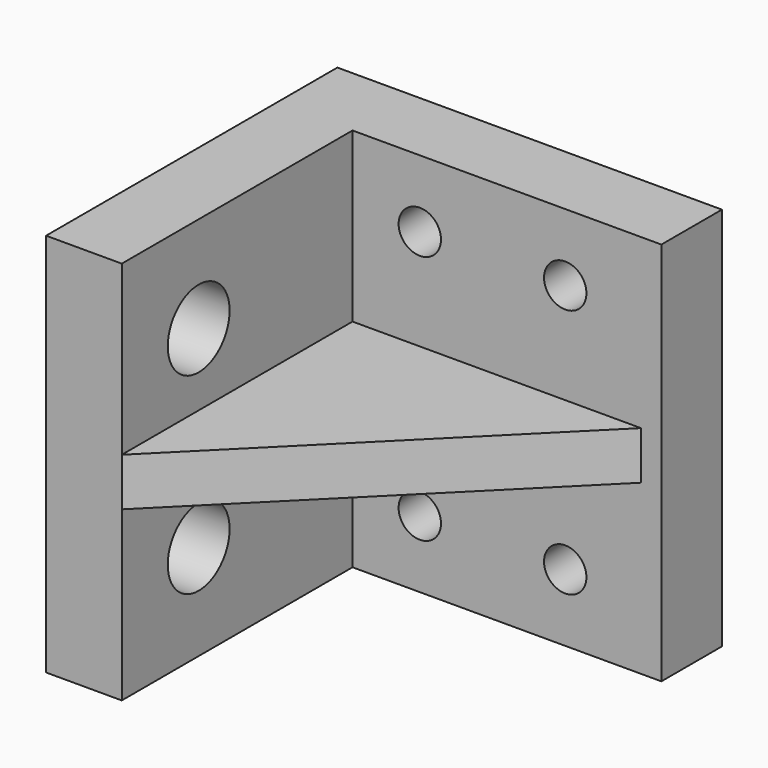
from build123d import *

# Parameters (mm, degrees)
F1_DEPTH = 25.4
F2_W     = 19.05
F2_H     = 1.5875
F3_DEPTH = 20.4
F5_DEPTH = 3.175
F6_R     = 1.4
F7_DEPTH = 5
F8_R     = 2.5527
F9_DEPTH = 5


with BuildPart() as f1:
    # F0 (on Top) → F1 (new body)
    with BuildSketch(Plane.XY):
        Polygon((-12.7, -12.025), (-7.7, -12.025), (-7.7, 7.025), (12.7, 7.025), (12.7, 12.025), (-12.7, 12.025), align=None)
    extrude(amount=F1_DEPTH)

    # F2 (on face) → F3 (join)
    with BuildSketch(Plane.YZ.offset(-7.7)):
        with Locations((-2.5, 13.49375)):
            Rectangle(F2_W, F2_H)
        with Locations((-2.5, 11.90625)):
            Rectangle(F2_W, F2_H)
    extrude(amount=F3_DEPTH)

    # F4 (on face) → F5 (cut, through all)
    with BuildSketch(Plane.XY.offset(14.2875)):
        Polygon((-7.7, -12.025), (12.7, -12.025), (12.7, 7.025), (11.35, 7.025), align=None)
    extrude(amount=-F5_DEPTH, mode=Mode.SUBTRACT)

    # F6 (on face) → F7 (cut, through all)
    with BuildSketch(Plane(origin=(0, 12.025, 0), x_dir=(-1, 0, 0), z_dir=(0, 1, 0))):
        with Locations((-6.35, 4.445)):
            Circle(F6_R)
        with Locations((-6.35, 20.955)):
            Circle(F6_R)
        with Locations((3.255, 20.955)):
            Circle(F6_R)
        with Locations((3.255, 4.445)):
            Circle(F6_R)
    extrude(amount=-F7_DEPTH, mode=Mode.SUBTRACT)

    # F8 (on face) → F9 (cut, through all)
    with BuildSketch(Plane(origin=(-12.7, 0, 0), x_dir=(0, -1, 0), z_dir=(-1, 0, 0))):
        with Locations((5.675, 19.05)):
            Circle(F8_R)
        with Locations((5.675, 6.35)):
            Circle(F8_R)
    extrude(amount=-F9_DEPTH, mode=Mode.SUBTRACT)


solid = f1.part
